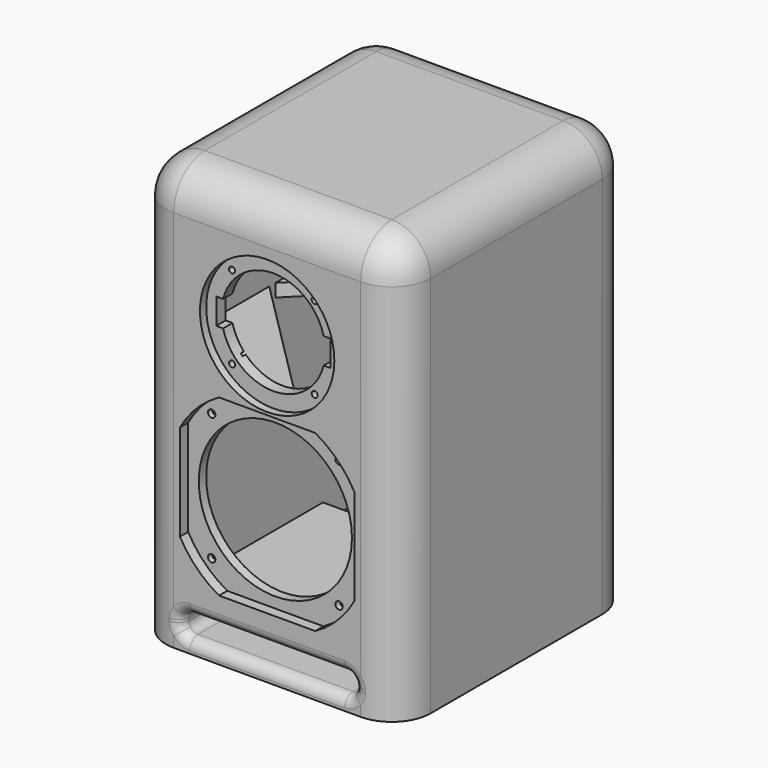
from build123d import *

# Parameters (mm, degrees)
BOX008_W               = 6.5
BOX008_H               = 20
BOX008_DEPTH           = 10.5
BOX007_W               = 6.5
BOX007_H               = 20
BOX007_DEPTH           = 10.5
BOX009_W               = 6.5
BOX009_H               = 20
BOX009_DEPTH           = 10.5
BOX010_W               = 6.5
BOX010_H               = 20
BOX010_DEPTH           = 10.5
BOX011_W               = 6.5
BOX011_H               = 20
BOX011_DEPTH           = 10.5
BOX013_W               = 6.5
BOX013_H               = 20
BOX013_DEPTH           = 10.5
BOX012_W               = 6.5
BOX012_H               = 20
BOX012_DEPTH           = 10.5
BOX006_W               = 6.5
BOX006_H               = 20
BOX006_DEPTH           = 10.5
SKETCH008_W            = 28
SKETCH008_H            = 33
EXTRUDE001_DEPTH       = 4.5
SKETCH007_R            = 13
SKETCH007_R_2          = 1.65
EXTRUDE_DEPTH          = 40
BOX002_W               = 133.36
BOX002_H               = 150
BOX002_DEPTH           = 16
FILLET002_R            = 7
BOX003_W               = 154
BOX003_H               = 140
BOX003_DEPTH           = 26
SKETCH004_R            = 51.75
PAD003_DEPTH           = 6
PAD004_DEPTH           = 35
SKETCH006_R            = 2.35
PAD005_DEPTH           = 35
PAD_DEPTH              = 7.9
SKETCH002_R            = 59
PAD001_DEPTH           = 25
SKETCH003_R            = 2.85
PAD002_DEPTH           = 34
BOX_W                  = 184
BOX_H                  = 200
BOX_DEPTH              = 305
FILLET_R               = 20
BOX001_W               = 204
BOX001_H               = 225
BOX001_DEPTH           = 325
FILLET001_R            = 30
BOX004_W               = 141
BOX004_H               = 132
BOX004_DEPTH           = 10
BOX004_PLACEMENT_ANGLE = 45
BOX005_W               = 184
BOX005_H               = 203
BOX005_DEPTH           = 10
FILLET003_R            = 8


with BuildPart() as cubo006:
    # Box008 → Box008 (new body)
    with BuildSketch(Plane(origin=(-52.5, 0, 60), x_dir=(1, 0, 0), z_dir=(0, 0, 1))):
        with Locations((3.25, 10)):
            Rectangle(BOX008_W, BOX008_H)
    extrude(amount=BOX008_DEPTH)


with BuildPart() as cubo005:
    # Box007 → Box007 (new body)
    with BuildSketch(Plane(origin=(46, 0, 158), x_dir=(1, 0, 0), z_dir=(0, 0, 1))):
        with Locations((3.25, 10)):
            Rectangle(BOX007_W, BOX007_H)
    extrude(amount=BOX007_DEPTH)


with BuildPart() as cubo007:
    # Box009 → Box009 (new body)
    with BuildSketch(Plane(origin=(-52.5, 0, 158), x_dir=(1, 0, 0), z_dir=(0, 0, 1))):
        with Locations((3.25, 10)):
            Rectangle(BOX009_W, BOX009_H)
    extrude(amount=BOX009_DEPTH)


with BuildPart() as cubo008:
    # Box010 → Box010 (new body)
    with BuildSketch(Plane(origin=(28.5, 0, 198), x_dir=(1, 0, 0), z_dir=(0, 0, 1))):
        with Locations((3.25, 10)):
            Rectangle(BOX010_W, BOX010_H)
    extrude(amount=BOX010_DEPTH)


with BuildPart() as cubo009:
    # Box011 → Box011 (new body)
    with BuildSketch(Plane(origin=(28.5, 0, 262), x_dir=(1, 0, 0), z_dir=(0, 0, 1))):
        with Locations((3.25, 10)):
            Rectangle(BOX011_W, BOX011_H)
    extrude(amount=BOX011_DEPTH)


with BuildPart() as cubo011:
    # Box013 → Box013 (new body)
    with BuildSketch(Plane(origin=(-35, 0, 198), x_dir=(1, 0, 0), z_dir=(0, 0, 1))):
        with Locations((3.25, 10)):
            Rectangle(BOX013_W, BOX013_H)
    extrude(amount=BOX013_DEPTH)


with BuildPart() as cubo010:
    # Box012 → Box012 (new body)
    with BuildSketch(Plane(origin=(-35, 0, 262), x_dir=(1, 0, 0), z_dir=(0, 0, 1))):
        with Locations((3.25, 10)):
            Rectangle(BOX012_W, BOX012_H)
    extrude(amount=BOX012_DEPTH)


with BuildPart() as obj1:
    # Box006 → Box006 (new body)
    with BuildSketch(Plane(origin=(46, 0, 60), x_dir=(1, 0, 0), z_dir=(0, 0, 1))):
        with Locations((3.25, 10)):
            Rectangle(BOX006_W, BOX006_H)
    extrude(amount=BOX006_DEPTH)

    # Fusion003: union Cubo006, Cubo005, Cubo007, Cubo008, Cubo009, Cubo011, Cubo010
    add(cubo006.part)
    add(cubo005.part)
    add(cubo007.part)
    add(cubo008.part)
    add(cubo009.part)
    add(cubo011.part)
    add(cubo010.part)


with BuildPart() as obj1_1:
    # Fusion003 placement: moved
    add(obj1.part.moved(Location((0, 12, 0))))


with BuildPart() as extrude001:
    # Sketch008 → Extrude001 (new body)
    with BuildSketch(Plane.XZ):
        with Locations((0, 120)):
            Rectangle(SKETCH008_W, SKETCH008_H)
    extrude(amount=EXTRUDE001_DEPTH)


with BuildPart() as extrude001_1:
    # Extrude001 placement: moved
    add(extrude001.part.moved(Location((0, 220, 0))))


with BuildPart() as conector:
    # Sketch007 → Extrude (new body)
    with BuildSketch(Plane.XZ):
        with Locations((0, 120)):
            Circle(SKETCH007_R)
        with Locations((9.5, 132)):
            Circle(SKETCH007_R_2)
        with Locations((-9.5, 108)):
            Circle(SKETCH007_R_2)
    extrude(amount=EXTRUDE_DEPTH)


with BuildPart() as conector_1:
    # Extrude placement: moved
    add(conector.part.moved(Location((0, 226, 0))))

    # Fusion: union Extrude001
    add(extrude001_1.part)


with BuildPart() as conector_2:
    # Fusion placement: moved
    add(conector_1.part.moved(Location((0, 5, 0))))


with BuildPart() as fusion002:
    # Box002 → Box002 (new body)
    with BuildSketch(Plane(origin=(-66.68, 0, 10), x_dir=(1, 0, 0), z_dir=(0, 0, 1))):
        with Locations((66.68, 75)):
            Rectangle(BOX002_W, BOX002_H)
    extrude(amount=BOX002_DEPTH)

    # Fillet002
    fillet002_edges = [fusion002.edges().sort_by_distance(p)[0] for p in [
        (-66.68, 75, 26),
        (-66.68, 75, 10),
        (66.68, 75, 26),
        (66.68, 75, 10),
    ]]
    fillet(fillet002_edges, radius=FILLET002_R)

    # Fusion002: union Conector
    add(conector_2.part)


with BuildPart() as puerto:
    # Box003 → Box003 (new body)
    with BuildSketch(Plane(origin=(-77, 10, 10), x_dir=(1, 0, 0), z_dir=(0, 0, 1))):
        with Locations((77, 70)):
            Rectangle(BOX003_W, BOX003_H)
    extrude(amount=BOX003_DEPTH)


with BuildPart() as obj2:
    # Sketch004 → Pad003 (new body)
    with BuildSketch(Plane.XZ):
        with Locations((0, 235)):
            Circle(SKETCH004_R)
    extrude(amount=-PAD003_DEPTH)

    # Sketch005 → Pad004 (join)
    with BuildSketch(Plane.XZ):
        with BuildLine():
            Line((-38.729833, 225), (-44, 225))
            Line((-44, 225), (-44, 245))
            Line((-44, 245), (-38.729833, 245))
            ThreePointArc((38.729833, 245), (0, 275), (-38.729833, 245))
            Line((38.729833, 245), (44, 245))
            Line((44, 245), (44, 225))
            Line((44, 225), (38.729833, 225))
            ThreePointArc((-38.729833, 225), (0, 195), (38.729833, 225))
        make_face()
    extrude(amount=-PAD004_DEPTH)

    # Sketch006 → Pad005 (join)
    with BuildSketch(Plane.XZ):
        with Locations((-31.82, 266.819221)):
            Circle(SKETCH006_R)
        with Locations((31.82, 266.819221)):
            Circle(SKETCH006_R)
        with Locations((31.82, 203.18)):
            Circle(SKETCH006_R)
        with Locations((-31.82, 203.18)):
            Circle(SKETCH006_R)
    extrude(amount=-PAD005_DEPTH)


with BuildPart() as obj3:
    # Sketch → Pad (new body)
    with BuildSketch(Plane.XZ):
        with BuildLine():
            Line((-37.019041, 181.175), (37.019041, 181.175))
            ThreePointArc((67.175, 151.019041), (54.23509, 168.23509), (37.019041, 181.175))
            Line((67.175, 151.019041), (67.175, 76.980959))
            ThreePointArc((37.019041, 46.825), (54.23509, 59.76491), (67.175, 76.980959))
            Line((37.019041, 46.825), (-37.019041, 46.825))
            ThreePointArc((-67.175, 76.980959), (-54.23509, 59.76491), (-37.019041, 46.825))
            Line((-67.175, 76.980959), (-67.175, 151.019041))
            ThreePointArc((-37.019041, 181.175), (-54.23509, 168.23509), (-67.175, 151.019041))
        make_face()
    extrude(amount=-PAD_DEPTH)

    # Sketch002 → Pad001 (join)
    with BuildSketch(Plane.XZ):
        with Locations((0, 114)):
            Circle(SKETCH002_R)
    extrude(amount=-PAD001_DEPTH)

    # Sketch003 → Pad002 (join)
    with BuildSketch(Plane.XZ):
        with Locations((-49.0732, 163.07)):
            Circle(SKETCH003_R)
        with Locations((49.0732, 163.07)):
            Circle(SKETCH003_R)
        with Locations((49.0732, 64.93)):
            Circle(SKETCH003_R)
        with Locations((-49.0732, 64.93)):
            Circle(SKETCH003_R)
    extrude(amount=-PAD002_DEPTH)


with BuildPart() as obj4:
    # Box → Box (new body)
    with BuildSketch(Plane(origin=(-92, 15, 10), x_dir=(1, 0, 0), z_dir=(0, 0, 1))):
        with Locations((92, 100)):
            Rectangle(BOX_W, BOX_H)
    extrude(amount=BOX_DEPTH)

    # Fillet
    fillet_edges = [obj4.edges().sort_by_distance(p)[0] for p in [
        (-92, 15, 162.5),
        (-92, 115, 315),
        (-92, 215, 162.5),
        (92, 15, 162.5),
        (92, 115, 315),
        (92, 215, 162.5),
        (0, 15, 315),
        (0, 215, 315),
    ]]
    fillet(fillet_edges, radius=FILLET_R)


with BuildPart() as cut002:
    # Box001 → Box001 (new body)
    with BuildSketch(Plane(origin=(-102, 0, 0), x_dir=(1, 0, 0), z_dir=(0, 0, 1))):
        with Locations((102, 112.5)):
            Rectangle(BOX001_W, BOX001_H)
    extrude(amount=BOX001_DEPTH)

    # Fillet001
    fillet001_edges = [cut002.edges().sort_by_distance(p)[0] for p in [
        (-102, 0, 162.5),
        (-102, 112.5, 325),
        (-102, 225, 162.5),
        (102, 0, 162.5),
        (102, 112.5, 325),
        (102, 225, 162.5),
        (0, 0, 325),
        (0, 225, 325),
    ]]
    fillet(fillet001_edges, radius=FILLET001_R)

    # Cut: cut obj4
    add(obj4.part, mode=Mode.SUBTRACT)

    # Cut001: cut obj3
    add(obj3.part, mode=Mode.SUBTRACT)

    # Cut002: cut obj2
    add(obj2.part, mode=Mode.SUBTRACT)


with BuildPart() as cubo002:
    # Box004 → Box004 (new body)
    with BuildSketch(Plane.XY):
        with Locations((70.5, 66)):
            Rectangle(BOX004_W, BOX004_H)
    extrude(amount=BOX004_DEPTH)


with BuildPart() as cubo002_1:
    # Box004 placement: moved
    add(cubo002.part.moved(Location((-95, 120, 0))).rotate(Axis((-95, 120, 0), (0, 0, -1)), BOX004_PLACEMENT_ANGLE))


with BuildPart() as fillet003:
    # Box005 → Box005 (new body)
    with BuildSketch(Plane(origin=(-92, 13, 0), x_dir=(1, 0, 0), z_dir=(0, 0, 1))):
        with Locations((92, 101.5)):
            Rectangle(BOX005_W, BOX005_H)
    extrude(amount=BOX005_DEPTH)

    # Cut003: cut Cubo002
    add(cubo002_1.part, mode=Mode.SUBTRACT)


with BuildPart() as fillet003_1:
    # Cut003 placement: moved
    add(fillet003.part.moved(Location((0, 0, 181))))

    # Fusion001: union Puerto, Cut002
    add(puerto.part)
    add(cut002.part)

    # Cut004: cut Fusion002
    add(fusion002.part, mode=Mode.SUBTRACT)

    # Cut005: cut obj1
    add(obj1_1.part, mode=Mode.SUBTRACT)

    # Fillet003
    fillet003_edges = [fillet003_1.edges().sort_by_distance(p)[0] for p in [
        (0, 0, 26),
        (0, 0, 10),
    ]]
    fillet(fillet003_edges, radius=FILLET003_R)


solid = fillet003_1.part
